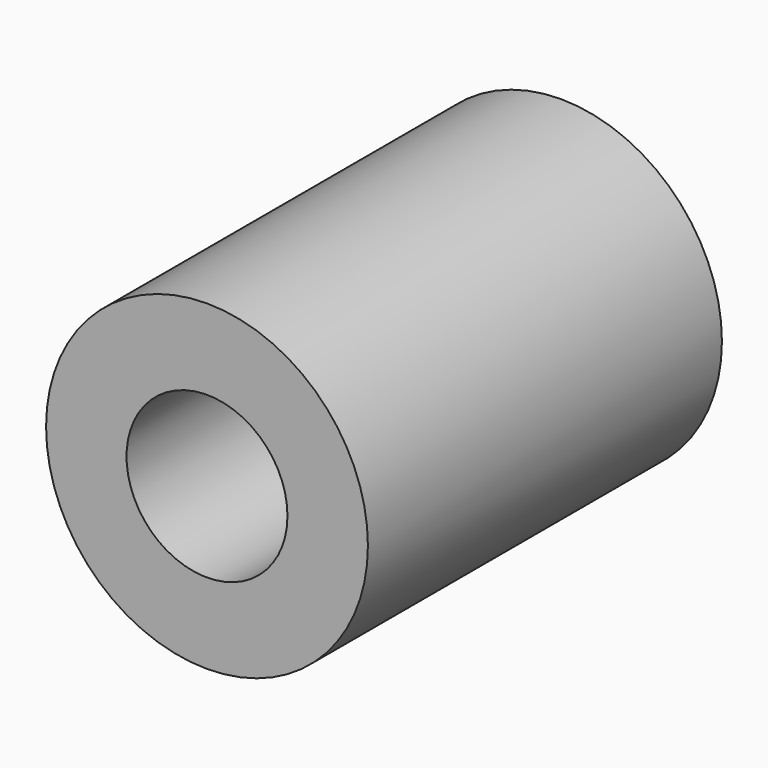
from build123d import *

# Parameters (mm, degrees)
CYLINDER002_R          = 1
CYLINDER002_DEPTH      = 5.5
CYLINDER002_ROLL_ANGLE = 90
CYLINDER001_R          = 2
CYLINDER001_DEPTH      = 5.5
CYLINDER001_ROLL_ANGLE = 90


with BuildPart() as cylinder002:
    # Cylinder002 → Cylinder002 (new body)
    with BuildSketch(Plane.XY):
        Circle(CYLINDER002_R)
    extrude(amount=CYLINDER002_DEPTH)


with BuildPart() as cylinder002_1:
    # Cylinder002 roll: moved
    add(cylinder002.part.rotate(Axis((0, 0, 0), (1, 0, 0)), CYLINDER002_ROLL_ANGLE))


with BuildPart() as cylinder002_2:
    # Cylinder002 placement: moved
    add(cylinder002_1.part.moved(Location((-44.75, 22, 11))))


with BuildPart() as cut085:
    # Cylinder001 → Cylinder001 (new body)
    with BuildSketch(Plane.XY):
        Circle(CYLINDER001_R)
    extrude(amount=CYLINDER001_DEPTH)


with BuildPart() as cut085_1:
    # Cylinder001 roll: moved
    add(cut085.part.rotate(Axis((0, 0, 0), (1, 0, 0)), CYLINDER001_ROLL_ANGLE))


with BuildPart() as cut085_2:
    # Cylinder001 placement: moved
    add(cut085_1.part.moved(Location((-44.75, 22, 11))))

    # Cut085: cut Cylinder002
    add(cylinder002_2.part, mode=Mode.SUBTRACT)


solid = cut085_2.part
